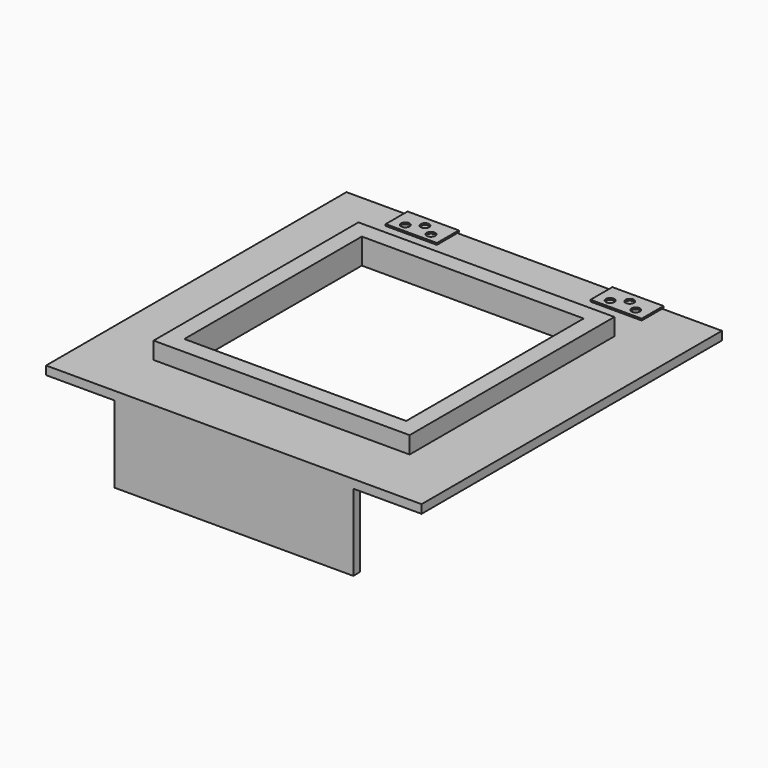
from build123d import *

# Parameters (mm, degrees)
F0_W      = 558.8
F0_H      = 558.8
F1_DEPTH  = 12.7
F2_W      = 355.6
F2_H      = 12.7
F3_DEPTH  = 114.3
F4_W      = 330.2
F4_H      = 330.2
F5_DEPTH  = 25.4
F6_W      = 381
F6_H      = 381
F6_W_2    = 330.2
F6_H_2    = 330.2
F7_DEPTH  = 25.4
F8_W      = 76.2
F8_H      = 38.1
F9_DEPTH  = 2.54
F10_W     = 76.2
F10_H     = 2.54
F11_DEPTH = 2.54
F13_DEPTH = 2.54
F15_DEPTH = 2.54


with BuildPart() as f1:
    # F0 (on Top) → F1 (new body)
    with BuildSketch(Plane.XY):
        Rectangle(F0_W, F0_H)
    extrude(amount=F1_DEPTH)

    # F2 (on face) → F3 (join)
    with BuildSketch(Plane(origin=(0, 0, 0), x_dir=(1, 0, 0), z_dir=(0, 0, -1))):
        with Locations((0, 273.05)):
            Rectangle(F2_W, F2_H)
    extrude(amount=F3_DEPTH)

    # F4 (on face) → F5 (cut)
    with BuildSketch(Plane.XY.offset(12.7)):
        Rectangle(F4_W, F4_H)
    extrude(amount=-F5_DEPTH, mode=Mode.SUBTRACT)

    # F6 (on face) → F7 (join)
    with BuildSketch(Plane.XY.offset(12.7)):
        Rectangle(F6_W, F6_H)
        Rectangle(F6_W_2, F6_H_2, mode=Mode.SUBTRACT)
    extrude(amount=F7_DEPTH)

    # F8 (on face) → F9 (join)
    with BuildSketch(Plane.XY.offset(12.7)):
        with Locations((-152.4, 260.35)):
            Rectangle(F8_W, F8_H)
        with Locations((152.4, 260.35)):
            Rectangle(F8_W, F8_H)
    extrude(amount=F9_DEPTH)

    # F10 (on face) → F11 (join)
    with BuildSketch(Plane(origin=(0, 279.4, 0), x_dir=(-1, 0, 0), z_dir=(0, 1, 0))):
        with Locations((-152.4, 13.97)):
            Rectangle(F10_W, F10_H)
        with Locations((152.4, 13.97)):
            Rectangle(F10_W, F10_H)
    extrude(amount=F11_DEPTH)

    # F12 (on face) → F13 (cut)
    with BuildSketch(Plane.XY.offset(15.24)):
        with BuildLine():
            Line((-158.75, 266.7), (-152.4, 266.7))
            Line((-152.4, 266.7), (-146.05, 266.7))
            ThreePointArc((-146.05, 266.7), (-152.4, 273.05), (-158.75, 266.7))
        make_face()
        with BuildLine():
            ThreePointArc((-158.75, 266.7), (-156.8901280605, 262.2098719395), (-152.4, 260.35))
            Line((-152.4, 260.35), (-152.4, 266.7))
            Line((-152.4, 266.7), (-158.75, 266.7))
        make_face()
        with BuildLine():
            Line((-152.4, 266.7), (-152.4, 260.35))
            ThreePointArc((-152.4, 260.35), (-147.9098719395, 262.2098719395), (-146.05, 266.7))
            Line((-146.05, 266.7), (-152.4, 266.7))
        make_face()
        with BuildLine():
            ThreePointArc((-171.45, 260.35), (-177.8, 254), (-171.45, 247.65))
            Line((-171.45, 247.65), (-171.45, 260.35))
        make_face()
        with BuildLine():
            Line((-171.45, 260.35), (-171.45, 247.65))
            ThreePointArc((-171.45, 247.65), (-166.9598719395, 249.5098719395), (-165.1, 254))
            ThreePointArc((-165.1, 254), (-166.9598719395, 258.4901280605), (-171.45, 260.35))
        make_face()
        with BuildLine():
            ThreePointArc((-133.35, 260.35), (-139.7, 254), (-133.35, 247.65))
            Line((-133.35, 247.65), (-133.35, 260.35))
        make_face()
        with BuildLine():
            Line((-133.35, 260.35), (-133.35, 247.65))
            ThreePointArc((-133.35, 247.65), (-128.8598719395, 249.5098719395), (-127, 254))
            ThreePointArc((-127, 254), (-128.8598719395, 258.4901280605), (-133.35, 260.35))
        make_face()
    extrude(amount=-F13_DEPTH, mode=Mode.SUBTRACT)

    # F14 (on face) → F15 (cut)
    with BuildSketch(Plane.XY.offset(15.24)):
        with BuildLine():
            Line((146.05, 266.7), (152.4, 266.7))
            Line((152.4, 266.7), (158.75, 266.7))
            ThreePointArc((158.75, 266.7), (152.4, 273.05), (146.05, 266.7))
        make_face()
        with BuildLine():
            ThreePointArc((146.05, 266.7), (147.9098719395, 262.2098719395), (152.4, 260.35))
            Line((152.4, 260.35), (152.4, 266.7))
            Line((152.4, 266.7), (146.05, 266.7))
        make_face()
        with BuildLine():
            Line((152.4, 266.7), (152.4, 260.35))
            ThreePointArc((152.4, 260.35), (156.8901280605, 262.2098719395), (158.75, 266.7))
            Line((158.75, 266.7), (152.4, 266.7))
        make_face()
        with BuildLine():
            ThreePointArc((171.45, 260.35), (165.1, 254), (171.45, 247.65))
            Line((171.45, 247.65), (171.45, 260.35))
        make_face()
        with BuildLine():
            Line((171.45, 260.35), (171.45, 247.65))
            ThreePointArc((171.45, 247.65), (175.9401280605, 249.5098719395), (177.8, 254))
            ThreePointArc((177.8, 254), (175.9401280605, 258.4901280605), (171.45, 260.35))
        make_face()
        with BuildLine():
            Line((133.35, 260.35), (133.35, 247.65))
            ThreePointArc((133.35, 247.65), (137.8401280605, 249.5098719395), (139.7, 254))
            ThreePointArc((139.7, 254), (137.8401280605, 258.4901280605), (133.35, 260.35))
        make_face()
        with BuildLine():
            ThreePointArc((133.35, 260.35), (127, 254), (133.35, 247.65))
            Line((133.35, 247.65), (133.35, 260.35))
        make_face()
    extrude(amount=-F15_DEPTH, mode=Mode.SUBTRACT)


solid = f1.part
